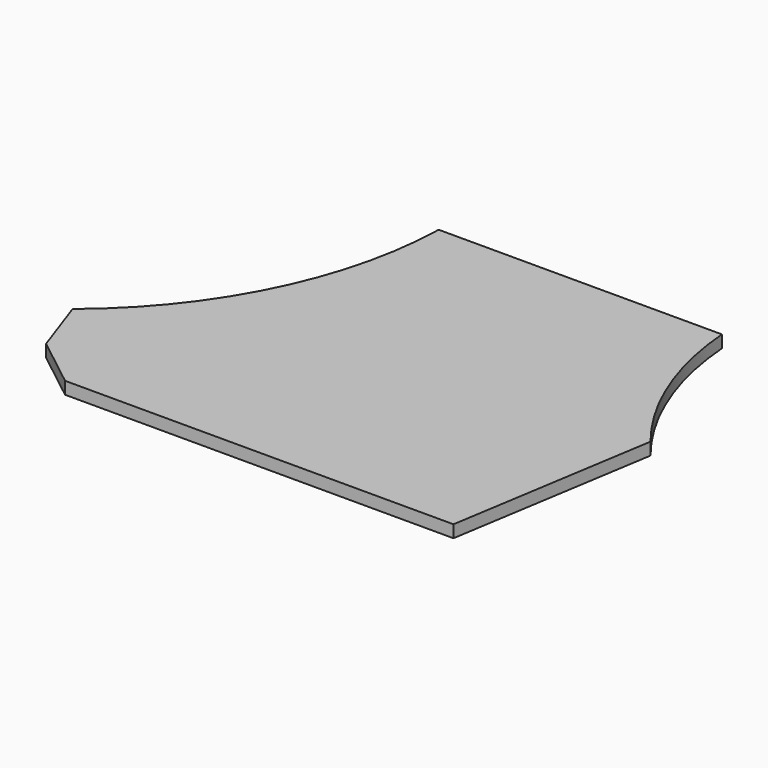
from build123d import *

# Parameters (mm, degrees)
F0_W     = 762
F0_H     = 590.55
F1_DEPTH = 19.05
F3_DEPTH = 25.4
F5_DEPTH = 25.4
F7_DEPTH = 25.4
F9_DEPTH = 25.4


with BuildPart() as f1:
    # F0 (on Top) → F1 (new body)
    with BuildSketch(Plane.XY):
        Rectangle(F0_W, F0_H)
    extrude(amount=F1_DEPTH)

    # F2 (on face) → F3 (cut)
    with BuildSketch(Plane.XY.offset(19.05)):
        with BuildLine():
            ThreePointArc((-381, -142.875), (-224.904359, 52.476061), (-165.1, 295.275))
            Line((-165.1, 295.275), (-381, 295.275))
            Line((-381, 295.275), (-381, -142.875))
        make_face()
    extrude(amount=-F3_DEPTH, mode=Mode.SUBTRACT)

    # F4 (on face) → F5 (cut)
    with BuildSketch(Plane.XY.offset(19.05)):
        with BuildLine():
            Line((381, 22.225), (381, 295.275))
            Line((381, 295.275), (273.05, 295.275))
            ThreePointArc((273.05, 295.275), (306.438019, 150.610961), (381, 22.225))
        make_face()
    extrude(amount=-F5_DEPTH, mode=Mode.SUBTRACT)

    # F6 (on face) → F7 (cut)
    with BuildSketch(Plane.XY.offset(19.05)):
        Polygon((381, -295.275), (381, 22.225), (330.2, -295.275), align=None)
    extrude(amount=-F7_DEPTH, mode=Mode.SUBTRACT)

    # F8 (on face) → F9 (cut)
    with BuildSketch(Plane.XY.offset(19.05)):
        Polygon((-349.161536, -233.895749), (-381, -142.875), (-381, -295.275), (-270.685613, -295.275), align=None)
    extrude(amount=-F9_DEPTH, mode=Mode.SUBTRACT)


solid = f1.part
